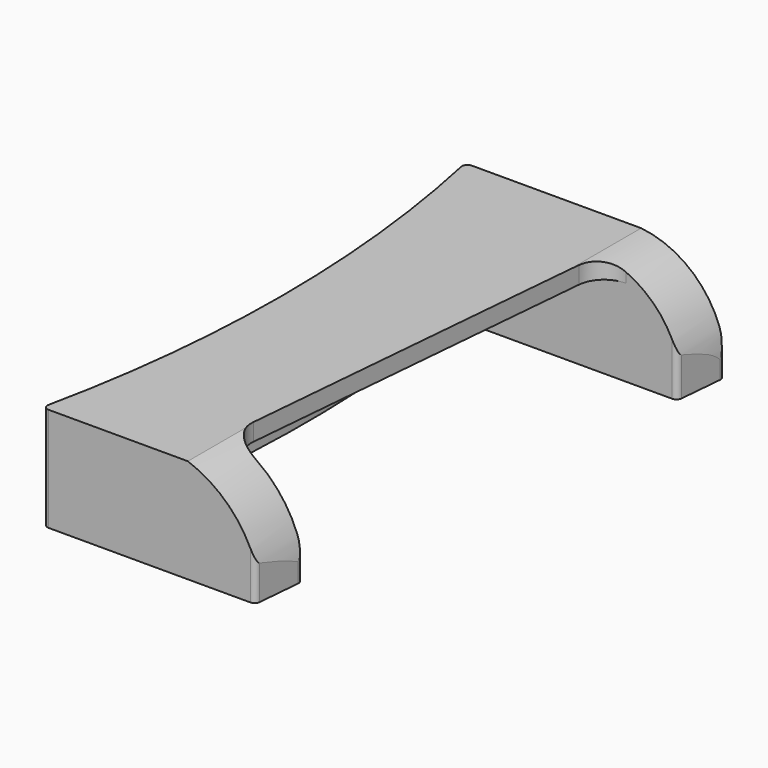
from build123d import *

# Parameters (mm, degrees)
F1_DEPTH = 24.384
F3_DEPTH = 20.32
F6_DEPTH = 124.001
F7_DEPTH = 19.5072


with BuildPart() as f1:
    # F0 (on Top) → F1 (new body)
    with BuildSketch(Plane.XY):
        with BuildLine():
            Line((59.612351, 0), (1.573374, 0))
            ThreePointArc((1.573374, 0), (0.586221, -0.470982), (0.331244, -1.5346))
            ThreePointArc((0.331244, -1.5346), (6.7, -62), (0.331244, -122.4654))
            ThreePointArc((0.331244, -122.4654), (0.586221, -123.529018), (1.573374, -124))
            Line((1.573374, -124), (48.837674, -124))
            ThreePointArc((48.837674, -124), (49.695106, -123.666862), (50.102706, -122.842221))
            Line((50.102706, -122.842221), (51.003997, -112.682221))
            ThreePointArc((51.003997, -112.682221), (50.675826, -111.712568), (49.738964, -111.3))
            Line((49.738964, -111.3), (40.215034, -111.3))
            ThreePointArc((40.215034, -111.3), (35.530725, -109.237161), (33.889873, -104.388897))
            Line((33.889873, -104.388897), (41.510034, -18.488897))
            ThreePointArc((41.510034, -18.488897), (43.548034, -14.365691), (47.835195, -12.7))
            Line((47.835195, -12.7), (58.711061, -12.7))
            ThreePointArc((58.711061, -12.7), (59.568493, -12.366862), (59.976093, -11.542221))
            Line((59.976093, -11.542221), (60.877384, -1.382221))
            ThreePointArc((60.877384, -1.382221), (60.549213, -0.412568), (59.612351, 0))
        make_face()
    extrude(amount=F1_DEPTH)

    # F2 (on face) → F3 (cut)
    with BuildSketch(Plane(origin=(0, 0, 0), x_dir=(1, 0, 0), z_dir=(0, 0, -1))):
        with BuildLine():
            ThreePointArc((11.140821, 111.3), (9.209142, 110.409307), (8.632213, 108.361901))
            ThreePointArc((8.632213, 108.361901), (12.288, 62), (8.632213, 15.638099))
            ThreePointArc((8.632213, 15.638099), (9.209142, 13.590693), (11.140821, 12.7))
            Line((11.140821, 12.7), (59.612351, 12.7))
            Line((59.612351, 12.7), (48.837674, 111.3))
            Line((48.837674, 111.3), (11.140821, 111.3))
        make_face()
    extrude(amount=-F3_DEPTH, mode=Mode.SUBTRACT)

    # F4 (on face) → F6 (cut, through all)
    with BuildSketch(Plane(origin=(0, 0, 0), x_dir=(-1, 0, 0), z_dir=(0, 1, 0))):
        with BuildLine():
            Line((-60.905915, 0), (-60.905915, 1.609697))
            ThreePointArc((-60.905915, 1.609697), (-55.623214, 16.900361), (-41.280743, 24.384))
            Line((-41.280743, 24.384), (-40.572539, 44.529654))
            Line((-40.572539, 44.529654), (-74.00889, 45.705081))
            Line((-74.00889, 45.705081), (-79.637952, 1.058017))
            Line((-79.637952, 1.058017), (-60.905915, 0))
        make_face()
    extrude(amount=-F6_DEPTH, mode=Mode.SUBTRACT)

    # F5 (on face) → F7 (cut)
    with BuildSketch(Plane.XZ.offset(124)):
        with BuildLine():
            ThreePointArc((34.204833, 24.384), (46.666601, 14.917599), (51.396679, 0))
            Line((51.396679, 0), (51.396679, 24.384))
            Line((51.396679, 24.384), (34.204833, 24.384))
        make_face()
    extrude(amount=-F7_DEPTH, mode=Mode.SUBTRACT)


solid = f1.part
